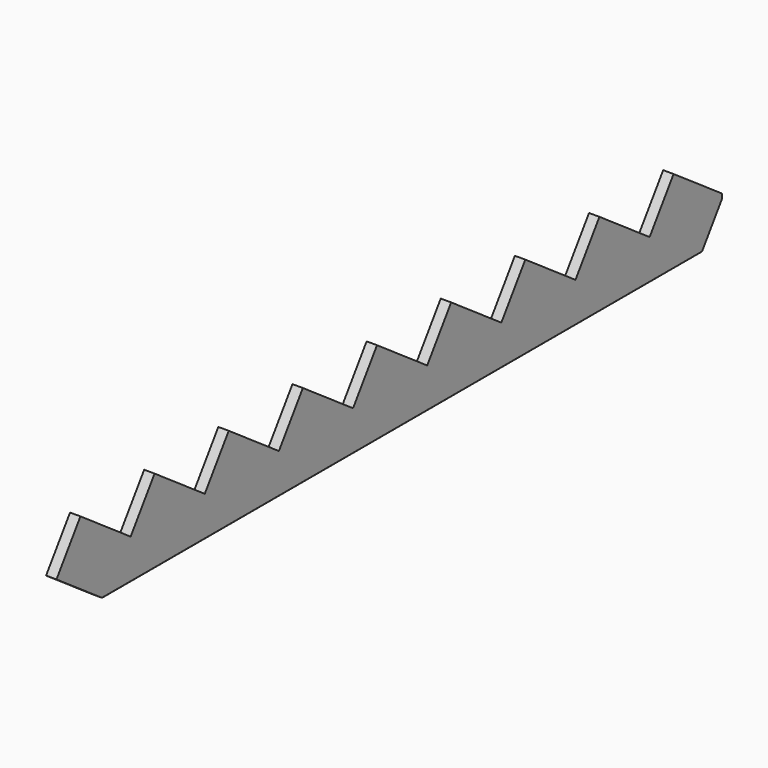
from build123d import *

# Parameters (mm, degrees)
F1_DEPTH = 1524
F3_DEPTH = 38.101


with BuildPart() as f1:
    # F0 (on Front) → F1 (new body, symmetric)
    with BuildSketch(Plane.XZ):
        with BuildLine():
            ThreePointArc((19.05, 168.275), (18.120064, 170.520064), (15.875, 171.45))
            Line((15.875, 171.45), (-15.875, 171.45))
            ThreePointArc((-15.875, 171.45), (-18.120064, 170.520064), (-19.05, 168.275))
            Line((-19.05, 168.275), (-19.05, -168.275))
            ThreePointArc((-19.05, -168.275), (-18.120064, -170.520064), (-15.875, -171.45))
            Line((-15.875, -171.45), (15.875, -171.45))
            ThreePointArc((15.875, -171.45), (18.120064, -170.520064), (19.05, -168.275))
            Line((19.05, -168.275), (19.05, 168.275))
        make_face()
    extrude(amount=F1_DEPTH, both=True)

    # F2 (on face) → F3 (cut, through all)
    with BuildSketch(Plane.YZ.offset(19.05)):
        Polygon((1302.537645, 133.35), (1532.521947, -25.305542), (1431.653422, -171.45), (1726.558447, -171.45), (1726.558447, 297.843307), (-1716.171622, 297.843307), (-1716.171622, -171.45), (-1312.712962, -171.45), (-1524, -25.469864), (-1414.269912, 133.35), (-1184.399055, -25.469864), (-1074.668967, 133.35), (-844.798111, -25.469864), (-735.068023, 133.35), (-505.197166, -25.469864), (-395.467078, 133.35), (-165.596221, -25.469864), (-55.866133, 133.35), (174.004723, -25.469864), (283.734811, 133.35), (513.605668, -25.469864), (623.335756, 133.35), (853.206612, -25.469864), (962.936701, 133.35), (1192.807557, -25.469864), align=None)
    extrude(amount=-F3_DEPTH, mode=Mode.SUBTRACT)


solid = f1.part
